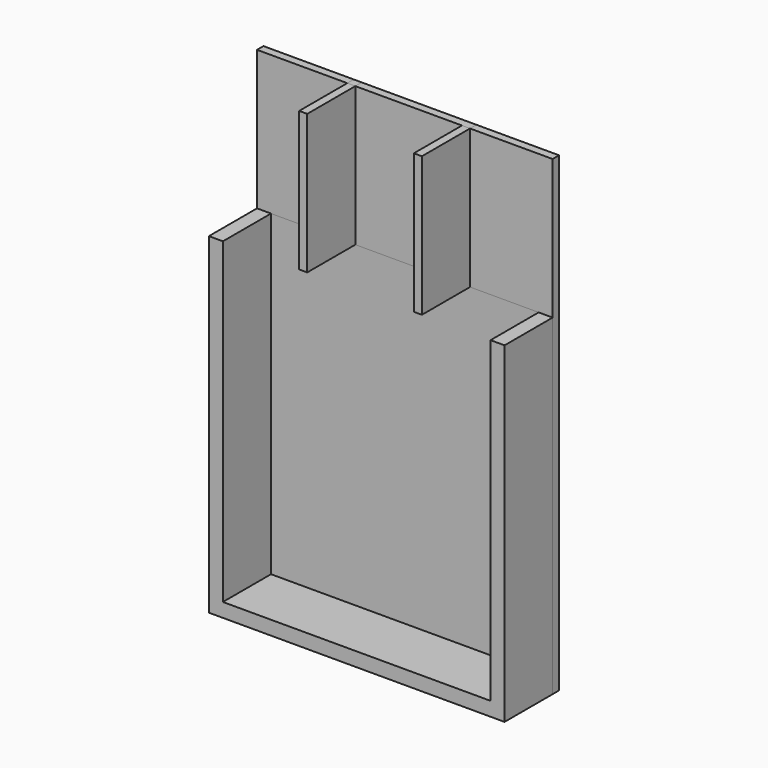
from build123d import *

# Parameters (mm, degrees)
F0_W     = 3
F0_H     = 51.993689
F1_DEPTH = 25.4
F0_W_2   = 39.718309
F2_DEPTH = 3
F3_DEPTH = 3


with BuildPart() as f1:
    # F0 (on Front) → F1 (new body)
    with BuildSketch(Plane.XZ):
        with Locations((-78.305232, 81.712723)):
            Rectangle(F0_W, F0_H)
        with Locations((-35.586923, 81.712723)):
            Rectangle(F0_W, F0_H)
        Polygon((-108.21604, 55.715879), (-113.432544, 55.715879), (-113.432544, -67.779744), (-3.298998, -67.779744), (-3.298998, 55.715879), (-8.515501, 55.715879), (-8.515501, -62.563241), (-108.21604, -62.563241), align=None)
    extrude(amount=F1_DEPTH)


with BuildPart() as f2:
    # F0 (on Front) → F2 (new body)
    with BuildSketch(Plane.XZ):
        Polygon((-79.805232, 107.709568), (-113.432544, 107.709568), (-113.432544, 55.715879), (-108.21604, 55.715879), (-79.805232, 55.715879), align=None)
        with Locations((-78.305232, 81.712723)):
            Rectangle(F0_W, F0_H)
        Polygon((-108.21604, 55.715879), (-113.432544, 55.715879), (-113.432544, -67.779744), (-3.298998, -67.779744), (-3.298998, 55.715879), (-8.515501, 55.715879), (-8.515501, -62.563241), (-108.21604, -62.563241), align=None)
        with Locations((-56.946077, 81.712723)):
            Rectangle(F0_W_2, F0_H)
        with Locations((-35.586923, 81.712723)):
            Rectangle(F0_W, F0_H)
        Polygon((-3.298998, 107.709568), (-34.086923, 107.709568), (-34.086923, 55.715879), (-8.515501, 55.715879), (-3.298998, 55.715879), align=None)
    extrude(amount=F2_DEPTH)


with BuildPart() as f3:
    # F0 (on Front) → F3 (new body)
    with BuildSketch(Plane.XZ):
        Polygon((-76.805232, 55.715879), (-79.805232, 55.715879), (-108.21604, 55.715879), (-108.21604, -62.563241), (-8.515501, -62.563241), (-8.515501, 55.715879), (-34.086923, 55.715879), (-37.086923, 55.715879), align=None)
    extrude(amount=F3_DEPTH)


solid = Compound([f1.part, f2.part, f3.part])
